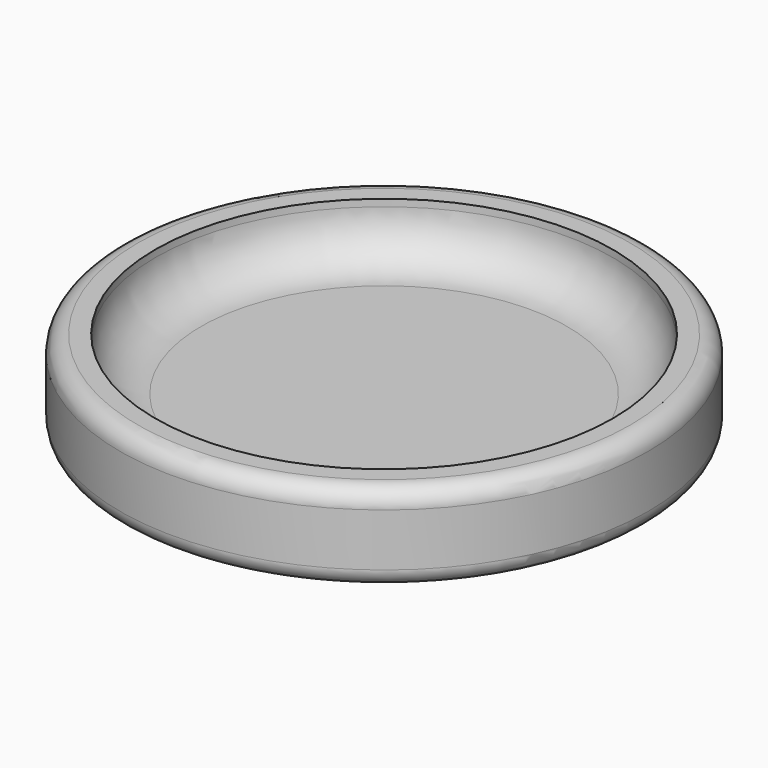
from build123d import *

# Parameters (mm, degrees)
SKETCH011_R    = 0.75
PAD004_DEPTH   = 0.25
THICKNESS001_T = -0.1
FILLET002_R    = 0.13
FILLET003_R    = 0.05


with BuildPart() as part:
    # Sketch011 → Pad004 (new body)
    with BuildSketch(Plane(origin=(-3.75, -4.25, 7), x_dir=(1, 0, 0), z_dir=(0, 0, 1))):
        Circle(SKETCH011_R)
    extrude(amount=PAD004_DEPTH)

    # Thickness001
    thickness001_openings = [part.faces().sort_by_distance(p)[0] for p in [
        (-3.75, -4.25, 7.25),
    ]]
    offset(amount=THICKNESS001_T, openings=thickness001_openings)

    # Fillet002
    fillet002_edges = [part.edges().sort_by_distance(p)[0] for p in [
        (-4.4, -4.25, 7.1),
    ]]
    fillet(fillet002_edges, radius=FILLET002_R)

    # Fillet003
    fillet003_edges = [part.edges().sort_by_distance(p)[0] for p in [
        (-4.5, -4.25, 7),
        (-4.5, -4.25, 7.25),
    ]]
    fillet(fillet003_edges, radius=FILLET003_R)


solid = part.part
